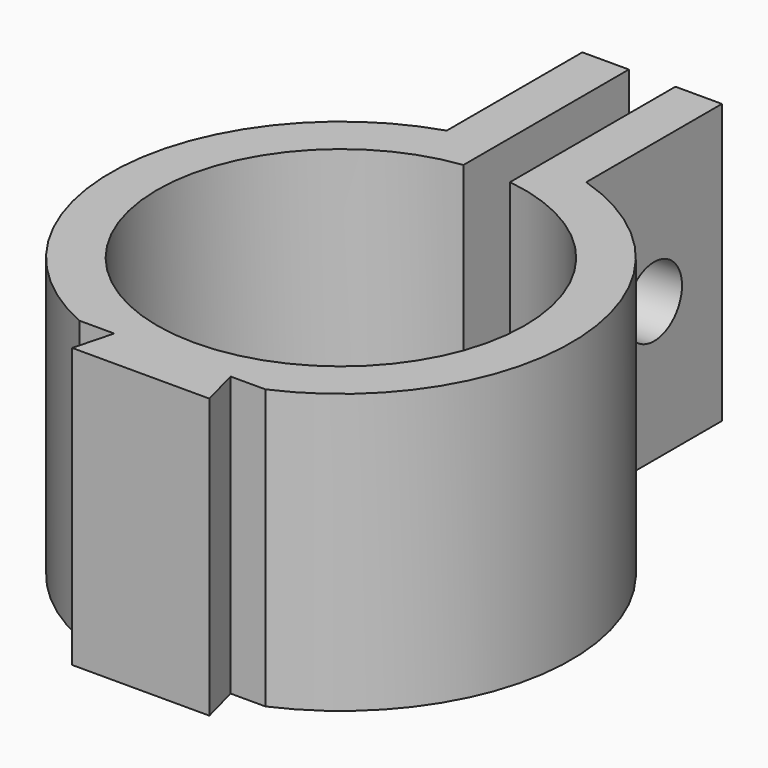
from build123d import *

# Parameters (mm, degrees)
F0_R      = 9.9
F0_R_2    = 7.9
F1_DEPTH  = 12
F3_DEPTH  = 12
F5_DEPTH  = 12.001
F6_W      = 2
F6_H      = 4.608413
F7_DEPTH  = 12.001
F8_W      = 2
F8_H      = 8
F9_DEPTH  = 12
F10_R     = 1.5
F11_DEPTH = 12.901
F13_DEPTH = 0.5


with BuildPart() as f1:
    # F0 (on Top) → F1 (new body)
    with BuildSketch(Plane.XY):
        Circle(F0_R)
        Circle(F0_R_2, mode=Mode.SUBTRACT)
    extrude(amount=F1_DEPTH)

    # F2 (on Top) → F3 (join)
    with BuildSketch(Plane.XY):
        Polygon((4, -9.055937), (0, -9.055937), (-4, -9.055937), (-4, -10.755937), (4, -10.755937), align=None)
    extrude(amount=F3_DEPTH)

    # F4 (on Top) → F5 (cut, through all)
    with BuildSketch(Plane.XY):
        Polygon((4, -9.055937), (2.5, -9.055937), (2.95, -10.755937), (4, -10.755937), align=None)
        Polygon((-2.95, -10.755937), (-2.5, -9.055937), (-4, -9.055937), (-4, -10.755937), align=None)
    extrude(amount=F5_DEPTH, mode=Mode.SUBTRACT)

    # F6 (on face) → F7 (cut, through all)
    with BuildSketch(Plane.XY.offset(12)):
        with Locations((0, 10.140659)):
            Rectangle(F6_W, F6_H)
    extrude(amount=-F7_DEPTH, mode=Mode.SUBTRACT)

    # F8 (on Top) → F9 (join)
    with BuildSketch(Plane.XY):
        with Locations((-2, 12.724238)):
            Rectangle(F8_W, F8_H)
        with Locations((2, 12.724238)):
            Rectangle(F8_W, F8_H)
    extrude(amount=F9_DEPTH)

    # F10 (on face) → F11 (cut, through all)
    with BuildSketch(Plane.YZ.offset(3)):
        with Locations((13.079374, 6)):
            Circle(F10_R)
    extrude(amount=-F11_DEPTH, mode=Mode.SUBTRACT)

    # F12 (on face) → F13 (cut)
    with BuildSketch(Plane(origin=(-3, 0, 0), x_dir=(0, -1, 0), z_dir=(-1, 0, 0))):
        Polygon((-13.104217, 8.944382), (-15.641705, 7.450677), (-15.616863, 4.506295), (-13.054532, 3.055618), (-10.517044, 4.549323), (-10.541886, 7.493705), align=None)
    extrude(amount=-F13_DEPTH, mode=Mode.SUBTRACT)


solid = f1.part
